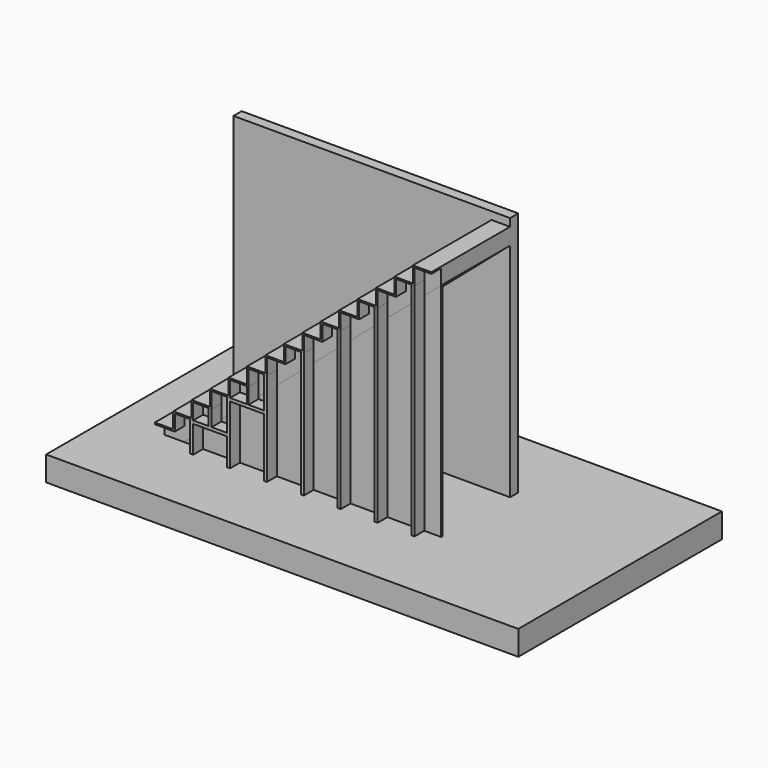
from build123d import *

# Parameters (mm, degrees)
F1_DEPTH  = 1066.8
F3_DEPTH  = 3048
F5_DEPTH  = 19.05
F8_DEPTH  = 152.4
F9_W      = 38.1
F9_H      = 374.65
F10_DEPTH = 152.4
F9_H_2    = 768.35
F9_H_3    = 1162.05
F9_H_4    = 1555.75
F9_H_5    = 1949.45
F9_H_6    = 2343.15
F9_H_7    = 2736.85
F11_W     = 419.1
F11_H     = 38.1
F12_DEPTH = 152.4
F13_W     = 5855.1892638206
F13_H     = 3156.2256813049
F14_DEPTH = 304.8
F15_W     = 38.1
F15_H     = 196.85
F16_DEPTH = 152.4
F15_W_2   = 19.05


with BuildPart() as f1:
    # F0 (on Front) → F1 (new body)
    with BuildSketch(Plane.XZ):
        Polygon((0, 196.85), (0, 0), (238.5098747049, 0), (3429, 2747.3664967819), (3429, 2952.75), (3200.4, 2952.75), (3200.4, 2755.9), (2971.8, 2755.9), (2971.8, 2559.05), (2743.2, 2559.05), (2743.2, 2362.2), (2514.6, 2362.2), (2514.6, 2165.35), (2286, 2165.35), (2286, 1968.5), (2057.4, 1968.5), (2057.4, 1771.65), (1828.8, 1771.65), (1828.8, 1574.8), (1600.2, 1574.8), (1600.2, 1377.95), (1371.6, 1377.95), (1371.6, 1181.1), (1143, 1181.1), (1143, 984.25), (914.4, 984.25), (914.4, 787.4), (685.8, 787.4), (685.8, 590.55), (457.2, 590.55), (457.2, 393.7), (228.6, 393.7), (228.6, 196.85), align=None)
    extrude(amount=F1_DEPTH)

    # F2 (on face) → F3 (join)
    with BuildSketch(Plane(origin=(0, 0, 0), x_dir=(1, 0, 0), z_dir=(0, 0, -1))):
        Polygon((238.5098747049, 0), (0, 0), (0, -127), (3429, -127), (3429, 0), align=None)
    extrude(amount=-F3_DEPTH)

    # F7 (on face) → F8 (join)
    with BuildSketch(Plane.XZ.offset(1066.8)):
        Polygon((228.6, 196.85), (0, 196.85), (0, 177.8), (247.65, 177.8), (247.65, 374.65), (476.25, 374.65), (476.25, 571.5), (704.85, 571.5), (704.85, 768.35), (933.45, 768.35), (933.45, 965.2), (1162.05, 965.2), (1162.05, 1162.05), (1390.65, 1162.05), (1390.65, 1358.9), (1619.25, 1358.9), (1619.25, 1555.75), (1847.85, 1555.75), (1847.85, 1752.6), (2076.45, 1752.6), (2076.45, 1949.45), (2305.05, 1949.45), (2305.05, 2146.3), (2533.65, 2146.3), (2533.65, 2343.15), (2762.25, 2343.15), (2762.25, 2540), (2990.85, 2540), (2990.85, 2736.85), (3219.45, 2736.85), (3219.45, 2933.7), (3429, 2933.7), (3429, 2952.75), (3200.4, 2952.75), (3200.4, 2755.9), (2971.8, 2755.9), (2971.8, 2559.05), (2743.2, 2559.05), (2743.2, 2362.2), (2514.6, 2362.2), (2514.6, 2165.35), (2286, 2165.35), (2286, 1968.5), (2057.4, 1968.5), (2057.4, 1771.65), (1828.8, 1771.65), (1828.8, 1574.8), (1600.2, 1574.8), (1600.2, 1377.95), (1371.6, 1377.95), (1371.6, 1181.1), (1143, 1181.1), (1143, 984.25), (914.4, 984.25), (914.4, 787.4), (685.8, 787.4), (685.8, 590.55), (457.2, 590.55), (457.2, 393.7), (228.6, 393.7), align=None)
    extrude(amount=F8_DEPTH)


with BuildPart() as f5:
    # F4 (on face) → F5 (new body)
    with BuildSketch(Plane.XZ.offset(1066.8)):
        Polygon((3429, 2747.3664967819), (238.5098747049, 0), (3429, 0), align=None)
    extrude(amount=-F5_DEPTH)


with BuildPart() as f10:
    # F9 (on face) → F10 (new body)
    with BuildSketch(Plane.XZ.offset(1066.8)):
        with Locations((457.2, 187.325)):
            Rectangle(F9_W, F9_H)
    extrude(amount=F10_DEPTH)


with BuildPart() as f10b:
    # F9 (on face) → F10, piece 2 (new body)
    with BuildSketch(Plane.XZ.offset(1066.8)):
        with Locations((914.4, 384.175)):
            Rectangle(F9_W, F9_H_2)
    extrude(amount=F10_DEPTH)


with BuildPart() as f10c:
    # F9 (on face) → F10, piece 3 (new body)
    with BuildSketch(Plane.XZ.offset(1066.8)):
        with Locations((1371.6, 581.025)):
            Rectangle(F9_W, F9_H_3)
    extrude(amount=F10_DEPTH)


with BuildPart() as f10d:
    # F9 (on face) → F10, piece 4 (new body)
    with BuildSketch(Plane.XZ.offset(1066.8)):
        with Locations((1828.8, 777.875)):
            Rectangle(F9_W, F9_H_4)
    extrude(amount=F10_DEPTH)


with BuildPart() as f10e:
    # F9 (on face) → F10, piece 5 (new body)
    with BuildSketch(Plane.XZ.offset(1066.8)):
        with Locations((2286, 974.725)):
            Rectangle(F9_W, F9_H_5)
    extrude(amount=F10_DEPTH)


with BuildPart() as f10f:
    # F9 (on face) → F10, piece 6 (new body)
    with BuildSketch(Plane.XZ.offset(1066.8)):
        with Locations((2743.2, 1171.575)):
            Rectangle(F9_W, F9_H_6)
    extrude(amount=F10_DEPTH)


with BuildPart() as f10g:
    # F9 (on face) → F10, piece 7 (new body)
    with BuildSketch(Plane.XZ.offset(1066.8)):
        with Locations((3200.4, 1368.425)):
            Rectangle(F9_W, F9_H_7)
    extrude(amount=F10_DEPTH)


with BuildPart() as f12:
    # F11 (on face) → F12 (new body)
    with BuildSketch(Plane.XZ.offset(1066.8)):
        with Locations((685.8, 355.6)):
            Rectangle(F11_W, F11_H)
    extrude(amount=F12_DEPTH)


with BuildPart() as f12b:
    # F11 (on face) → F12, piece 2 (new body)
    with BuildSketch(Plane.XZ.offset(1066.8)):
        with Locations((1143, 749.3)):
            Rectangle(F11_W, F11_H)
    extrude(amount=F12_DEPTH)


with BuildPart() as f14:
    # F13 (on face) → F14 (new body)
    with BuildSketch(Plane(origin=(0, 0, 0), x_dir=(1, 0, 0), z_dir=(0, 0, -1))):
        with Locations((2288.0873978138, 527.0290374756)):
            Rectangle(F13_W, F13_H)
    extrude(amount=F14_DEPTH)


with BuildPart() as f16:
    # F15 (on face) → F16 (new body)
    with BuildSketch(Plane.XZ.offset(1066.8)):
        with Locations((685.8, 473.075)):
            Rectangle(F15_W, F15_H)
    extrude(amount=F16_DEPTH)


with BuildPart() as f16b:
    # F15 (on face) → F16, piece 2 (new body)
    with BuildSketch(Plane.XZ.offset(1066.8)):
        with Locations((1152.525, 866.775)):
            Rectangle(F15_W_2, F15_H)
    extrude(amount=F16_DEPTH)


solid = Compound([f1.part, f5.part, f10.part, f10b.part, f10c.part, f10d.part, f10e.part, f10f.part, f10g.part, f12.part, f12b.part, f14.part, f16.part, f16b.part])
